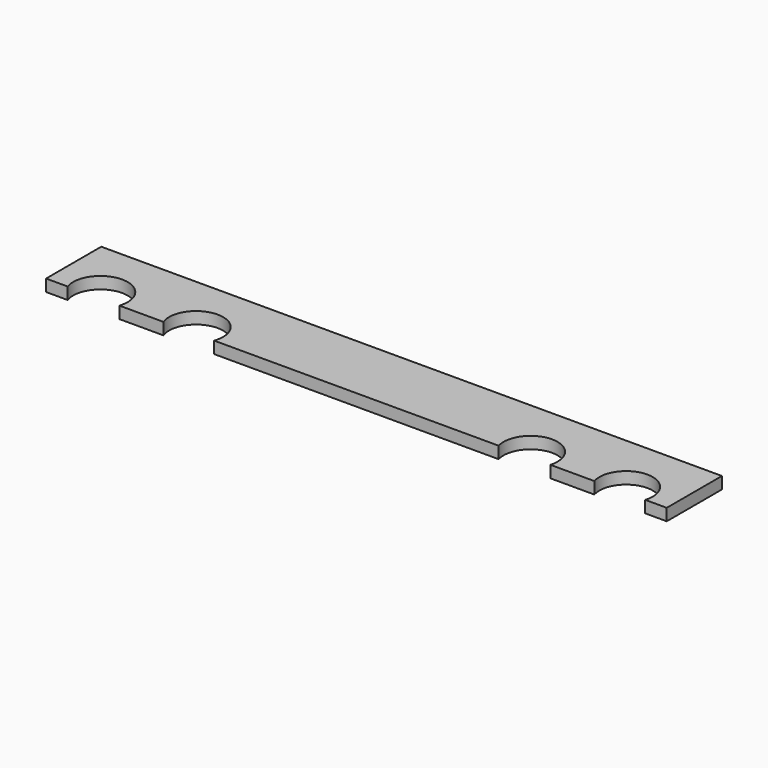
from build123d import *

# Parameters (mm, degrees)
F1_DEPTH = 17.526


with BuildPart() as f1:
    # F0 (on Top) → F1 (new body)
    with BuildSketch(Plane.XY):
        with BuildLine():
            Line((457.2, 50.8), (-457.2, 50.8))
            Line((-457.2, 50.8), (-457.2, -50.8))
            Line((-457.2, -50.8), (-425.45, -50.8))
            ThreePointArc((-425.45, -50.8), (-387.35, 2.095826), (-349.25, -50.8))
            Line((-349.25, -50.8), (-284.416494, -50.8))
            ThreePointArc((-284.416494, -50.8), (-246.983247, 2.486972), (-209.55, -50.8))
            Line((-209.55, -50.8), (209.55, -50.8))
            ThreePointArc((209.55, -50.8), (247.65, 0.063836), (285.75, -50.8))
            Line((285.75, -50.8), (350.5962, -50.8))
            ThreePointArc((350.5962, -50.8), (388.0231, 0.044642), (425.45, -50.8))
            Line((425.45, -50.8), (457.2, -50.8))
            Line((457.2, -50.8), (457.2, 50.8))
        make_face()
    extrude(amount=F1_DEPTH)


solid = f1.part
